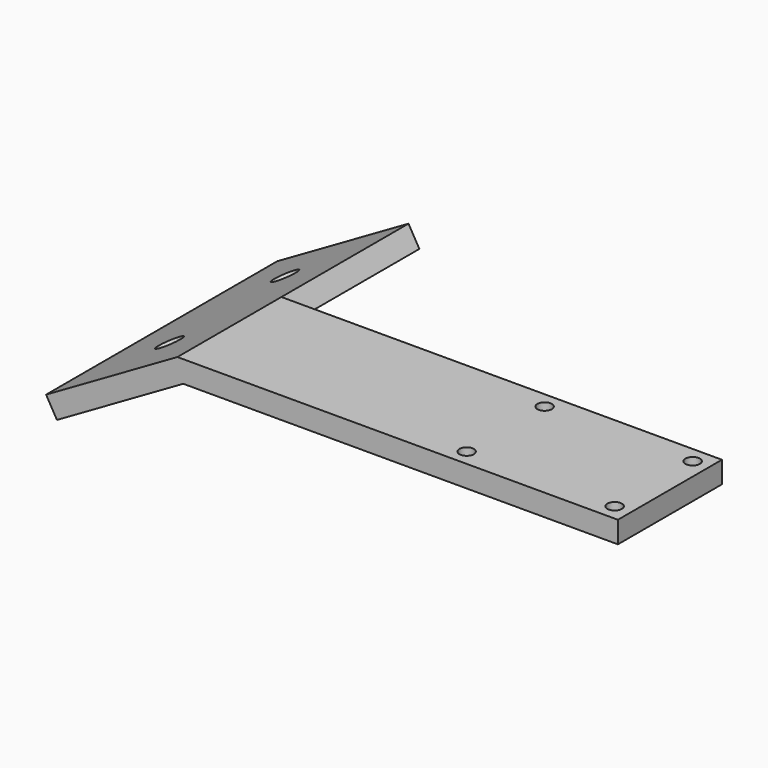
from build123d import *

# Parameters (mm, degrees)
F0_W     = 25
F0_H     = 18
F0_W_2   = 36
F1_DEPTH = 3
F2_D     = 2
F2_DEPTH = 8
F2_TIP   = 0.600860619
F4_W     = 21
F4_H     = 18
F4_H_2   = 22
F5_DEPTH = 3
F6_D     = 3.4
F6_DEPTH = 8
F6_TIP   = 1.0214630523


with BuildPart() as f1:
    # F0 (on Top) → F1 (new body)
    with BuildSketch(Plane.XY):
        with Locations((-16.3281254843, 3.8449834271)):
            Rectangle(F0_W, F0_H)
        with Locations((-46.8281254843, 3.8449834271)):
            Rectangle(F0_W_2, F0_H)
    extrude(amount=-F1_DEPTH)

    # F2
    with Locations(Plane.XY):
        with Locations((-26.5781254843, 10.5949834271), (-6.0781254843, 10.5949834271), (-6.0781254843, -2.9050165729), (-26.5781254843, -2.9050165729)):
            Hole(F2_D / 2, depth=F2_DEPTH)
            with Locations((0, 0, -(F2_DEPTH + F2_TIP / 2))):  # 118° drill point
                Cone(0, F2_D / 2, F2_TIP, mode=Mode.SUBTRACT)

    # F4 (on line) → F5 (join)
    with BuildSketch(Plane(origin=(-16.2070313711, 0, 28.0714017746), x_dir=(0.8660254038, 0, 0.5), z_dir=(0.5, 0, -0.8660254038))):
        with Locations((-66.6428035491, -3.8449834271)):
            Rectangle(F4_W, F4_H)
        with Locations((-66.6428035491, -23.8449834271)):
            Rectangle(F4_W, F4_H_2)
        with Locations((-66.6428035491, -3.8449834271)):
            Rectangle(F4_W, F4_H)
    extrude(amount=F5_DEPTH)

    # F6
    with Locations(Plane(origin=(-16.2070313711, 0, 28.0714017746), x_dir=(0.8660254038, 0, 0.5), z_dir=(-0.5, 0, 0.8660254038))):
        with Locations((-66.6428035491, 24.8449834271), (-66.6428035491, 4.8449834271)):
            Hole(F6_D / 2, depth=F6_DEPTH)
            with Locations((0, 0, -(F6_DEPTH + F6_TIP / 2))):  # 118° drill point
                Cone(0, F6_D / 2, F6_TIP, mode=Mode.SUBTRACT)


solid = f1.part
